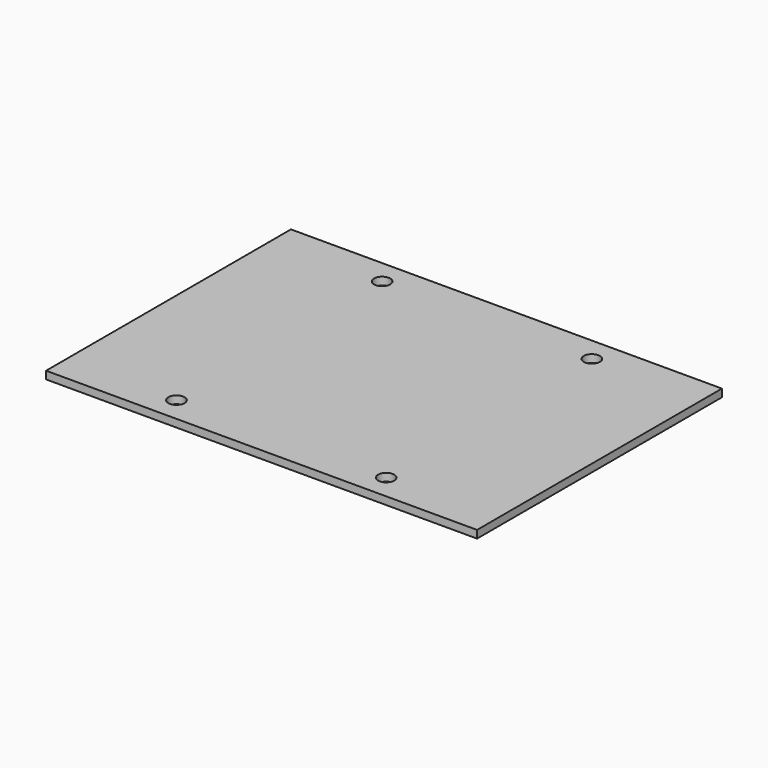
from build123d import *

# Parameters (mm, degrees)
F0_W     = 83.947
F0_H     = 59.6138
F1_DEPTH = 1.5
F3_D     = 3.15
F4_D     = 3.15
F5_D     = 3.15
F6_D     = 3.15


with BuildPart() as f1:
    # F0 (on Top) → F1 (new body)
    with BuildSketch(Plane.XY):
        Rectangle(F0_W, F0_H)
    extrude(amount=F1_DEPTH)

    # F3 (through all)
    with Locations(Plane.XY.offset(1.5)):
        with Locations((-20.4235, -24.9969)):
            Hole(F3_D / 2)

    # F4 (through all)
    with Locations(Plane.XY.offset(1.5)):
        with Locations((20.4235, -24.9969)):
            Hole(F4_D / 2)

    # F5 (through all)
    with Locations(Plane.XY.offset(1.5)):
        with Locations((-20.4235, 25.0799947721)):
            Hole(F5_D / 2)

    # F6 (through all)
    with Locations(Plane.XY.offset(1.5)):
        with Locations((20.4235, 25.0799947721)):
            Hole(F6_D / 2)


solid = f1.part
